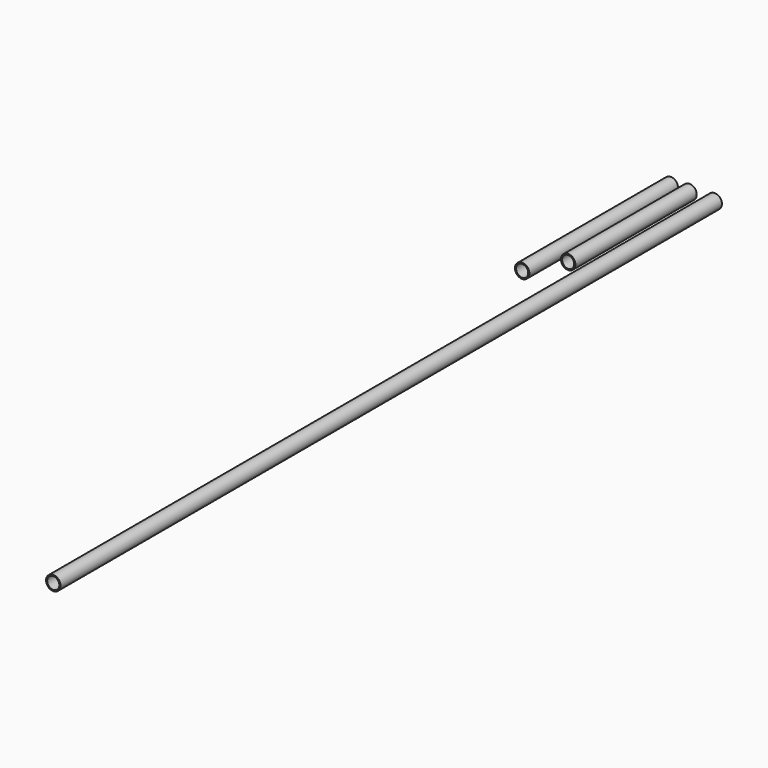
from build123d import *

# Parameters (mm, degrees)
F0_R     = 24.13
F0_R_2   = 20.32
F1_DEPTH = 508
F2_R     = 24.13
F2_R_2   = 20.32
F3_DEPTH = 2768.6
F4_R     = 24.13
F4_R_2   = 20.32
F5_DEPTH = 622.3


with BuildPart() as f1:
    # F0 (on Front) → F1 (new body)
    with BuildSketch(Plane.XZ):
        Circle(F0_R)
        Circle(F0_R_2, mode=Mode.SUBTRACT)
    extrude(amount=F1_DEPTH)


with BuildPart() as f3:
    # F2 (on Front) → F3 (new body)
    with BuildSketch(Plane.XZ):
        with Locations((84.306789, 0)):
            Circle(F2_R)
        with Locations((84.306789, 0)):
            Circle(F2_R_2, mode=Mode.SUBTRACT)
    extrude(amount=F3_DEPTH)


with BuildPart() as f5:
    # F4 (on Front) → F5 (new body)
    with BuildSketch(Plane.XZ):
        with Locations((-62.63041, 0)):
            Circle(F4_R)
        with Locations((-62.63041, 0)):
            Circle(F4_R_2, mode=Mode.SUBTRACT)
    extrude(amount=F5_DEPTH)


solid = Compound([f1.part, f3.part, f5.part])
